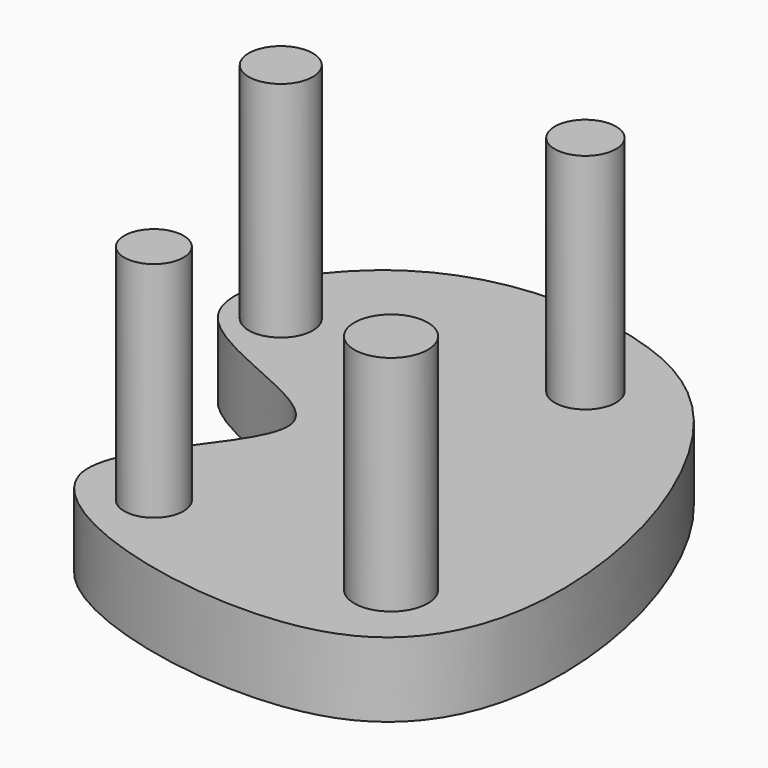
from build123d import *

# Parameters (mm, degrees)
F1_DEPTH = 10
F2_R     = 4.941943737
F2_R_2   = 4.1146527774
F2_R_3   = 4.3068218636
F2_R_4   = 3.9843220754
F3_DEPTH = 40


with BuildPart() as f1:
    # F0 (on Top) → F1 (new body)
    with BuildSketch(Plane.XY):
        with BuildLine():
            add(Edge.make_bspline(
                [(-39.6379828453, 45.0698547065), (-31.2871639461, 50.5456317163), (-11.3900815962, 50.2952589699), (8.0130061153, 38.6416072394), (21.8567977138, 4.1414792801), (13.7631423684, -34.6187951551), (-56.0376063777, -16.7776923382), (-13.0793510352, 14.1161014967), (-58.9852547129, 20.5063919448), (-47.1432494903, 40.1485209975), (-39.6379828453, 45.0698547065)],
                knots=[0, 0, 0, 0, 0.1225637218, 0.2303308453, 0.3706668668, 0.4991318448, 0.6552383479, 0.7710899547, 0.8898463224, 1, 1, 1, 1], degree=3))
        make_face()
    extrude(amount=F1_DEPTH)

    # F2 (on Top) → F3 (join)
    with BuildSketch(Plane.XY):
        with Locations((4.4159633107, -12.5555153936)):
            Circle(F2_R)
        with Locations((-7.8261299059, 35.3864952922)):
            Circle(F2_R_2)
        with Locations((-43.1089922786, 28.329923749)):
            Circle(F2_R_3)
        with Locations((-27.7332700789, -12.2060673311)):
            Circle(F2_R_4)
    extrude(amount=F3_DEPTH)


solid = f1.part
